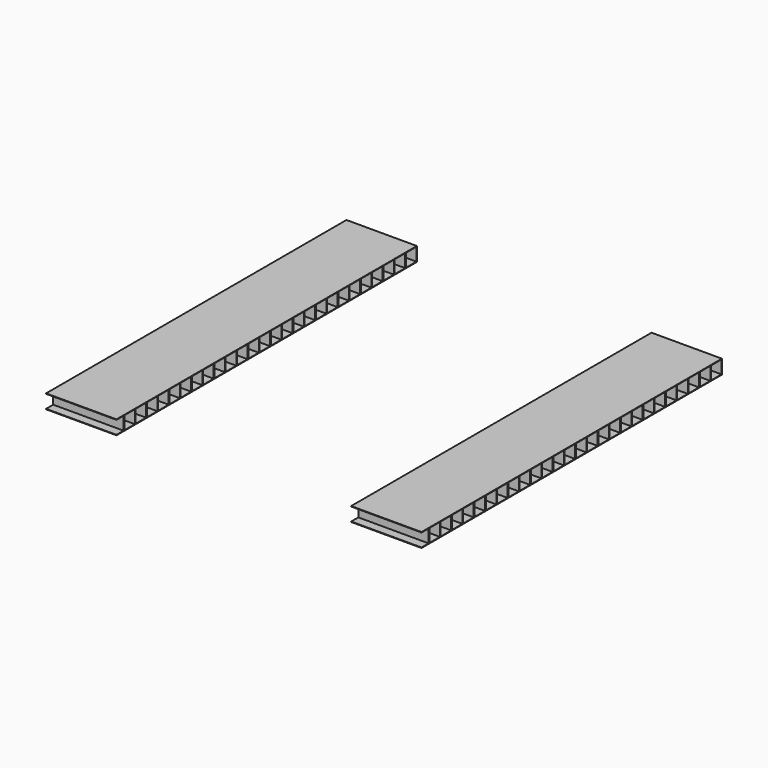
from build123d import *

# Parameters (mm, degrees)
F0_W     = 15
F0_H     = 80
F1_DEPTH = 3
F2_W     = 2.8
F2_H     = 2.8
F2_W_2   = 0.9
F3_DEPTH = 80


with BuildPart() as f1:
    # F0 (on Top) → F1 (new body)
    with BuildSketch(Plane.XY):
        with Locations((32.5, 0)):
            Rectangle(F0_W, F0_H)
        with Locations((-32.5, 0)):
            Rectangle(F0_W, F0_H)
    extrude(amount=F1_DEPTH)

    # F2 (on face) → F3 (cut)
    with BuildSketch(Plane(origin=(-40, 0, 0), x_dir=(0, -1, 0), z_dir=(-1, 0, 0))):
        with Locations((-35.5, 1.5)):
            Rectangle(F2_W, F2_H)
        with Locations((-32.5, 1.5)):
            Rectangle(F2_W, F2_H)
        with Locations((-29.5, 1.5)):
            Rectangle(F2_W, F2_H)
        with Locations((-26.5, 1.5)):
            Rectangle(F2_W, F2_H)
        with Locations((-23.5, 1.5)):
            Rectangle(F2_W, F2_H)
        with Locations((-20.5, 1.5)):
            Rectangle(F2_W, F2_H)
        with Locations((-17.5, 1.5)):
            Rectangle(F2_W, F2_H)
        with Locations((-14.5, 1.5)):
            Rectangle(F2_W, F2_H)
        with Locations((-11.5, 1.5)):
            Rectangle(F2_W, F2_H)
        with Locations((-8.5, 1.5)):
            Rectangle(F2_W, F2_H)
        with Locations((-5.5, 1.5)):
            Rectangle(F2_W, F2_H)
        with Locations((-2.5, 1.5)):
            Rectangle(F2_W, F2_H)
        with Locations((0.5, 1.5)):
            Rectangle(F2_W, F2_H)
        with Locations((3.5, 1.5)):
            Rectangle(F2_W, F2_H)
        with Locations((6.5, 1.5)):
            Rectangle(F2_W, F2_H)
        with Locations((12.5, 1.5)):
            Rectangle(F2_W, F2_H)
        with Locations((15.5, 1.5)):
            Rectangle(F2_W, F2_H)
        with Locations((18.5, 1.5)):
            Rectangle(F2_W, F2_H)
        with Locations((21.5, 1.5)):
            Rectangle(F2_W, F2_H)
        with Locations((24.5, 1.5)):
            Rectangle(F2_W, F2_H)
        with Locations((27.5, 1.5)):
            Rectangle(F2_W, F2_H)
        with Locations((30.5, 1.5)):
            Rectangle(F2_W, F2_H)
        with Locations((33.5, 1.5)):
            Rectangle(F2_W, F2_H)
        with Locations((36.5, 1.5)):
            Rectangle(F2_W, F2_H)
        with Locations((40.45, 1.5)):
            Rectangle(F2_W_2, F2_H)
        Polygon((39.9, 2.9), (38.1, 2.9), (38.1, 0.1), (39.9, 0.1), (40, 0.1), (40, 2.9), align=None)
        with Locations((-38.5, 1.5)):
            Rectangle(F2_W, F2_H)
        with Locations((9.5, 1.5)):
            Rectangle(F2_W, F2_H)
    extrude(amount=-F3_DEPTH, mode=Mode.SUBTRACT)


solid = f1.part
